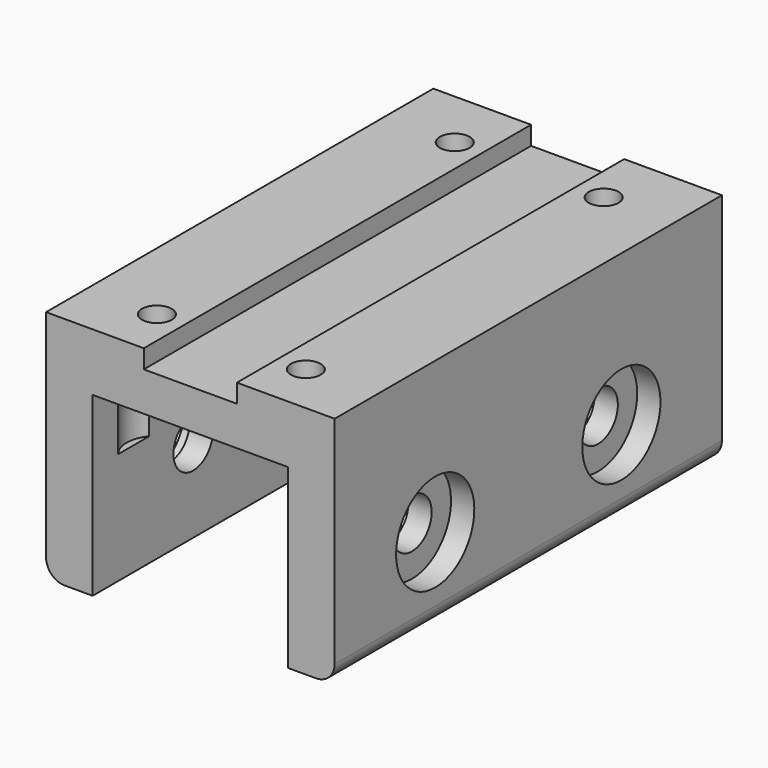
from build123d import *

# Parameters (mm, degrees)
PAD031_DEPTH            = 13.5
PAD031_DEPTH_BACK       = 38.5
SKETCH097_R             = 1.6
POCKET050_DEPTH         = 6.201
POCKET050_DEPTH_BACK    = 19.001
SKETCH100_R             = 3.25
POCKET051_DEPTH         = 10
LINEARPATTERN_COUNT     = 2
LINEARPATTERN_PITCH     = 25
BODY029_PLACEMENT_ANGLE = 180


with BuildPart() as part:
    # Sketch099 → Pad031 (new body, two sides)
    with BuildSketch(Plane.XZ) as pad031_sk:
        with BuildLine():
            Line((-13.5, 19), (-10.5, 19))
            Line((-10.5, 0), (-10.5, 19))
            Line((10.5, 0), (-10.5, 0))
            Line((10.5, 19), (10.5, 0))
            Line((10.5, 19), (13.5, 19))
            ThreePointArc((15.5, 17), (14.914214, 18.414214), (13.5, 19))
            Line((15.5, 17), (15.5, -6.2))
            Line((15.5, -6.2), (5, -6.2))
            Line((5, -4.2), (5, -6.2))
            Line((-5, -4.2), (5, -4.2))
            Line((-5, -6.2), (-5, -4.2))
            Line((-5, -6.2), (-15.5, -6.2))
            Line((-15.5, -6.2), (-15.5, 17))
            ThreePointArc((-13.5, 19), (-14.914214, 18.414214), (-15.5, 17))
        make_face()
    extrude(amount=PAD031_DEPTH)
    extrude(pad031_sk.sketch, amount=-PAD031_DEPTH_BACK)

    # Sketch097 → Pocket050 (cut, two sides)
    with BuildSketch(Plane.XY) as pocket050_sk:
        with Locations((-8, 32)):
            Circle(SKETCH097_R)
        with Locations((8, 32)):
            Circle(SKETCH097_R)
        with Locations((-8, -8)):
            Circle(SKETCH097_R)
        with Locations((8, -8)):
            Circle(SKETCH097_R)
    extrude(amount=-POCKET050_DEPTH, mode=Mode.SUBTRACT)
    extrude(pocket050_sk.sketch, amount=POCKET050_DEPTH_BACK, mode=Mode.SUBTRACT)

    # Sketch100 → Pocket051 (cut)
    with BuildSketch(Plane(origin=(0, 0, -3), x_dir=(-1, 0, 0), z_dir=(0, 0, -1))):
        with Locations((-8, 32)):
            Circle(SKETCH100_R)
        with Locations((8, 32)):
            Circle(SKETCH100_R)
        with Locations((-8, -8)):
            Circle(SKETCH100_R)
        with Locations((8, -8)):
            Circle(SKETCH100_R)
    extrude(amount=-POCKET051_DEPTH, mode=Mode.SUBTRACT)

    # Sketch110 → Groove (revolve, cut)
    with BuildSketch(Plane(origin=(0, 0, 10), x_dir=(-1, 0, 0), z_dir=(0, 1, 0))):
        Polygon((-13, 2.65), (13, 2.65), (13, 5.25), (23, 5.25), (23, 0), (-23, 0), (-23, 5.25), (-13, 5.25), align=None)
    groove = revolve(axis=Axis((0, 0, 10), (-1, 0, 0)), mode=Mode.SUBTRACT)

    # LinearPattern: Groove ×2
    with Locations(*[(0, i * LINEARPATTERN_PITCH, 0) for i in range(1, LINEARPATTERN_COUNT)]):
        add(groove, mode=Mode.SUBTRACT)


with BuildPart() as part_1:
    # Body029 placement: moved
    add(part.part.moved(Location((0, 0, 32))).rotate(Axis((0, 0, 32), (0, 1, 0)), BODY029_PLACEMENT_ANGLE))


solid = part_1.part
